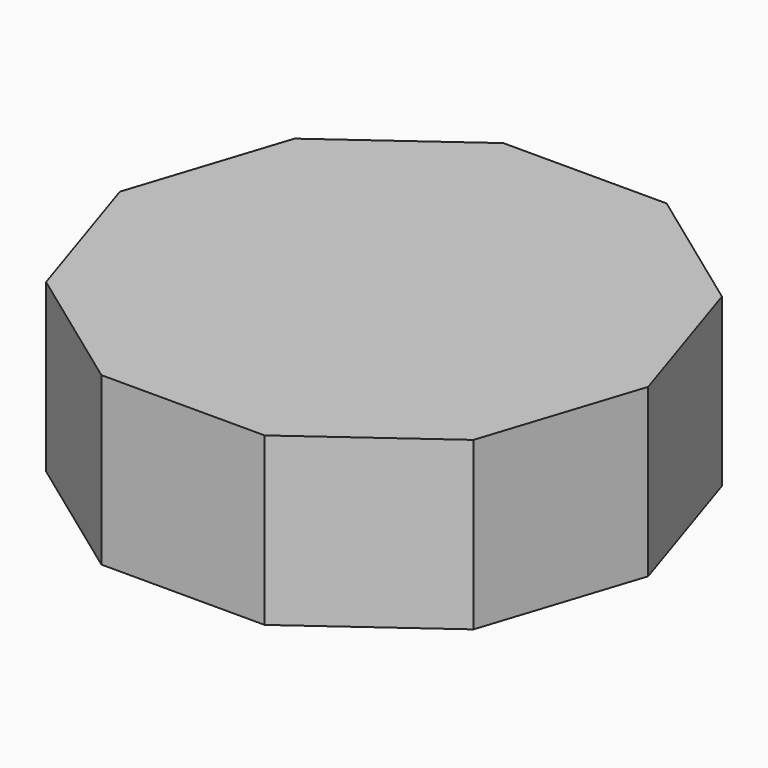
from build123d import *

# Parameters (mm, degrees)
F1_DEPTH = 25.4
F2_T     = -2.54


with BuildPart() as f1:
    # F0 (on Top) → F1 (new body)
    with BuildSketch(Plane.XY):
        Polygon((-12.428495, 0), (12.428495, 0), (32.538223, 14.610572), (40.219456, 38.250975), (32.538223, 61.891378), (12.428495, 76.501951), (-12.428495, 76.501951), (-32.538223, 61.891378), (-40.219456, 38.250975), (-32.538223, 14.610572), align=None)
    extrude(amount=F1_DEPTH)

    # F2
    f2_openings = [f1.faces().sort_by_distance(p)[0] for p in [
        (-22.483359, 69.196664, 12.7),
        (0, 76.501951, 12.7),
    ]]
    offset(amount=F2_T, openings=f2_openings)


solid = f1.part
